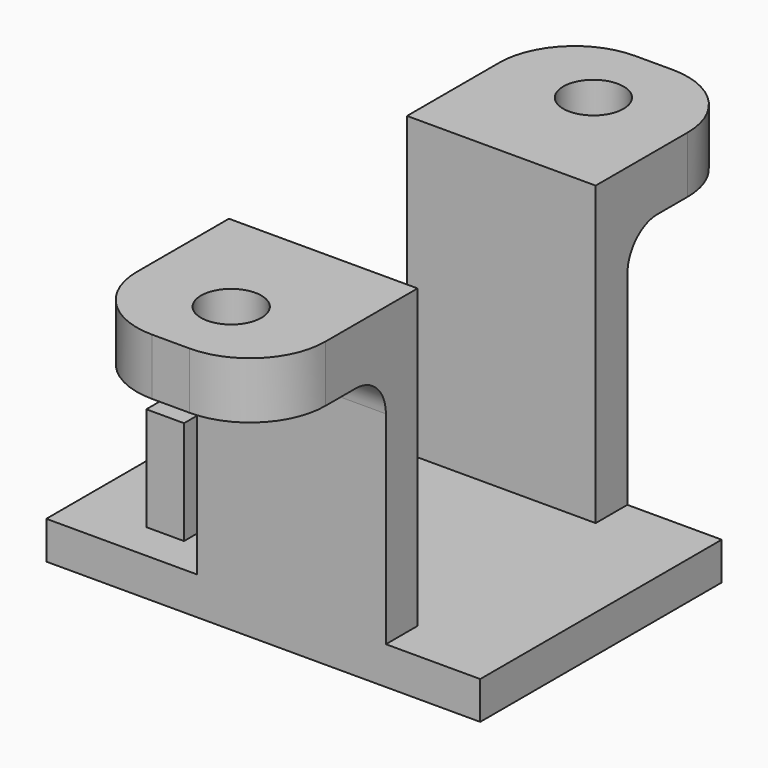
from build123d import *

# Parameters (mm, degrees)
SKETCH_W     = 23
SKETCH_H     = 16
PAD_DEPTH    = 2
SKETCH001_W  = 10
SKETCH001_H  = 2.1
PAD001_DEPTH = 15.75
SKETCH002_W  = 10
SKETCH002_H  = 3
PAD002_DEPTH = 8
SKETCH003_W  = 10
SKETCH003_H  = 3
PAD003_DEPTH = 8
SKETCH004_R  = 1.6
POCKET_DEPTH = 5
SKETCH005_W  = 2
SKETCH005_H  = 4
PAD004_DEPTH = 5.5
FILLET_R     = 2
FILLET001_R  = 4


with BuildPart() as part:
    # Sketch → Pad (new body)
    with BuildSketch(Plane.XY):
        with Locations((11.5, 8)):
            Rectangle(SKETCH_W, SKETCH_H)
    extrude(amount=PAD_DEPTH)

    # Sketch001 (on Face6 of Pad) → Pad001 (join)
    with BuildSketch(Plane.XY.offset(2)):
        with Locations((13, 1.05)):
            Rectangle(SKETCH001_W, SKETCH001_H)
        with Locations((13, 14.95)):
            Rectangle(SKETCH001_W, SKETCH001_H)
    extrude(amount=PAD001_DEPTH)

    # Sketch002 (on Face6 of Pad001) → Pad002 (join)
    with BuildSketch(Plane.XZ):
        with Locations((13, 16.25)):
            Rectangle(SKETCH002_W, SKETCH002_H)
    extrude(amount=PAD002_DEPTH)

    # Sketch003 (on Face15 of Pad002) → Pad003 (join)
    with BuildSketch(Plane(origin=(0, 16, 0), x_dir=(-1, 0, 0), z_dir=(0, 1, 0))):
        with Locations((-13, 16.25)):
            Rectangle(SKETCH003_W, SKETCH003_H)
    extrude(amount=PAD003_DEPTH)

    # Sketch004 (on Face26 of Pad003) → Pocket (cut)
    with BuildSketch(Plane.XY.offset(17.75)):
        with Locations((13, -4)):
            Circle(SKETCH004_R)
        with Locations((13, 20)):
            Circle(SKETCH004_R)
    extrude(amount=-POCKET_DEPTH, mode=Mode.SUBTRACT)

    # Sketch005 → Pad004 (join)
    with BuildSketch(Plane.XY.offset(2)):
        with Locations((4.7, 4)):
            Rectangle(SKETCH005_W, SKETCH005_H)
    extrude(amount=PAD004_DEPTH)

    # Fillet
    fillet_edges = [part.edges().sort_by_distance(p)[0] for p in [
        (13, 16, 14.75),
        (13, 0, 14.75),
    ]]
    fillet(fillet_edges, radius=FILLET_R)

    # Fillet001
    fillet001_edges = [part.edges().sort_by_distance(p)[0] for p in [
        (8, -8, 16.25),
        (18, -8, 16.25),
        (18, 24, 16.25),
        (8, 24, 16.25),
    ]]
    fillet(fillet001_edges, radius=FILLET001_R)


solid = part.part
